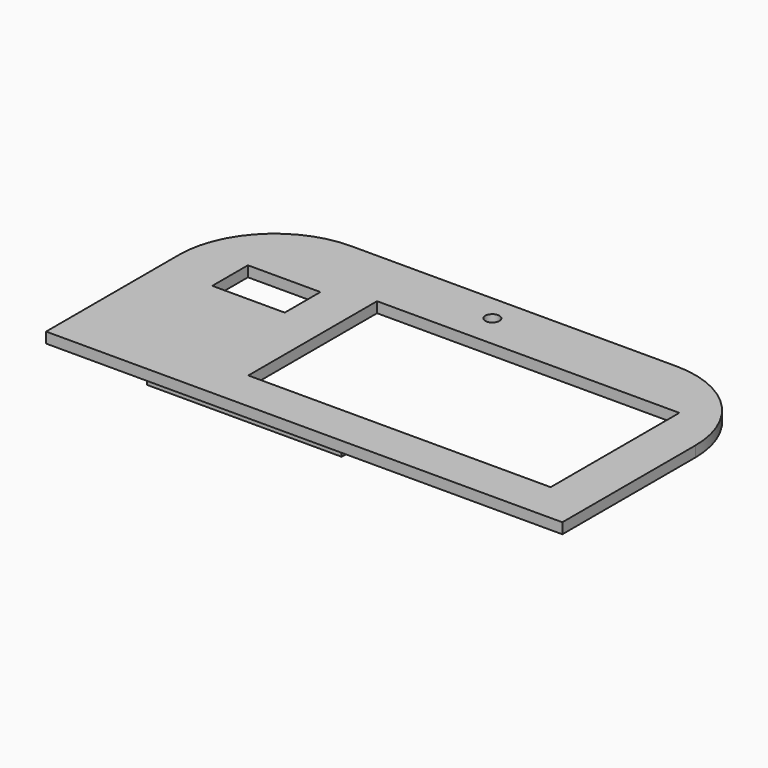
from build123d import *

# Parameters (mm, degrees)
F1_DEPTH = 3
F2_W     = 20.5
F2_H     = 12.6
F2_R     = 2
F2_W_2   = 85.5
F2_H_2   = 45.5
F3_DEPTH = 3
F4_W     = 55
F4_H     = 5
F5_DEPTH = 4


with BuildPart() as f1:
    # F0 (on Top) → F1 (new body)
    with BuildSketch(Plane.XY):
        with BuildLine():
            Line((0, 0), (2.5, 0))
            Line((2.5, 0), (143.5, 0))
            Line((143.5, 0), (146, 0))
            Line((146, 0), (146, 4.25))
            Line((146, 4.25), (146, 47))
            ThreePointArc((146, 47), (138.091883, 66.091883), (119, 74))
            Line((119, 74), (27, 74))
            ThreePointArc((27, 74), (7.908117, 66.091883), (0, 47))
            Line((0, 47), (0, 4.25))
            Line((0, 4.25), (0, 0))
        make_face()
    extrude(amount=F1_DEPTH)

    # F2 (on face) → F3 (cut)
    with BuildSketch(Plane.XY.offset(3)):
        with Locations((25.25, 46.3)):
            Rectangle(F2_W, F2_H)
        with Locations((73, 66.5)):
            Circle(F2_R)
        with Locations((90.75, 34.25)):
            Rectangle(F2_W_2, F2_H_2)
    extrude(amount=-F3_DEPTH, mode=Mode.SUBTRACT)

    # F4 (on face) → F5 (join)
    with BuildSketch(Plane(origin=(0, 0, 0), x_dir=(1, 0, 0), z_dir=(0, 0, -1))):
        with Locations((52.5, -7)):
            Rectangle(F4_W, F4_H)
    extrude(amount=F5_DEPTH)


solid = f1.part
